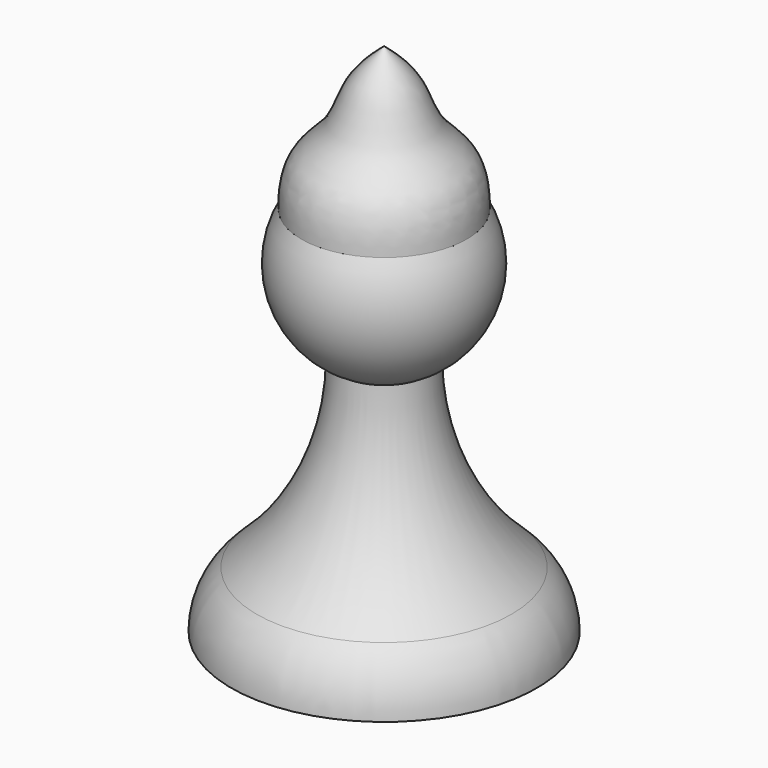
from build123d import *


with BuildPart() as f1:
    # F0 (on Front) → F1 (revolve)
    with BuildSketch(Plane.XZ):
        with BuildLine():
            Line((0, 24.765), (0, 27.94))
            ThreePointArc((0, 27.94), (-3.175, 27.089261314), (-5.499261314, 24.765))
            Line((-5.499261314, 24.765), (0, 24.765))
        make_face()
        with BuildLine():
            ThreePointArc((-5.499261314, 24.765), (-3.175, 27.089261314), (0, 27.94))
            Line((0, 27.94), (0, 34.29))
            add(Edge.make_bspline(
                [(-5.499261314, 24.765), (-5.498336166, 25.9943295902), (-5.2042721485, 27.8126569478), (-2.8771680979, 29.4744620175), (-2.2423220338, 32.3228253844), (-0.7040188878, 33.6942036826), (0, 34.29)],
                knots=[0, 0, 0, 0, 0.2578838453, 0.4970448565, 0.7463294179, 1, 1, 1, 1], degree=3))
        make_face()
        with BuildLine():
            Line((0, 24.765), (-5.499261314, 24.765))
            ThreePointArc((-5.499261314, 24.765), (-6.1107667472, 19.8634341132), (-3.0246256584, 16.0066193371))
            ThreePointArc((-3.0246256584, 16.0066193371), (-1.5601334544, 15.4346378169), (0, 15.24))
            Line((0, 15.24), (0, 24.765))
        make_face()
        with BuildLine():
            ThreePointArc((0, 15.24), (-1.5601334544, 15.4346378169), (-3.0246256584, 16.0066193371))
            ThreePointArc((-3.0246256584, 16.0066193371), (-4.4496278878, 9.3100366382), (-8.4777086332, 3.7738451037))
            ThreePointArc((-8.4777086332, 3.7738451037), (-9.7203828221, 2.0659145136), (-10.16, 0))
            Line((-10.16, 0), (0, 0))
            Line((0, 0), (0, 15.24))
        make_face()
    revolve(axis=Axis((0, 0, 13.97), (0, 0, -1)))


solid = f1.part
